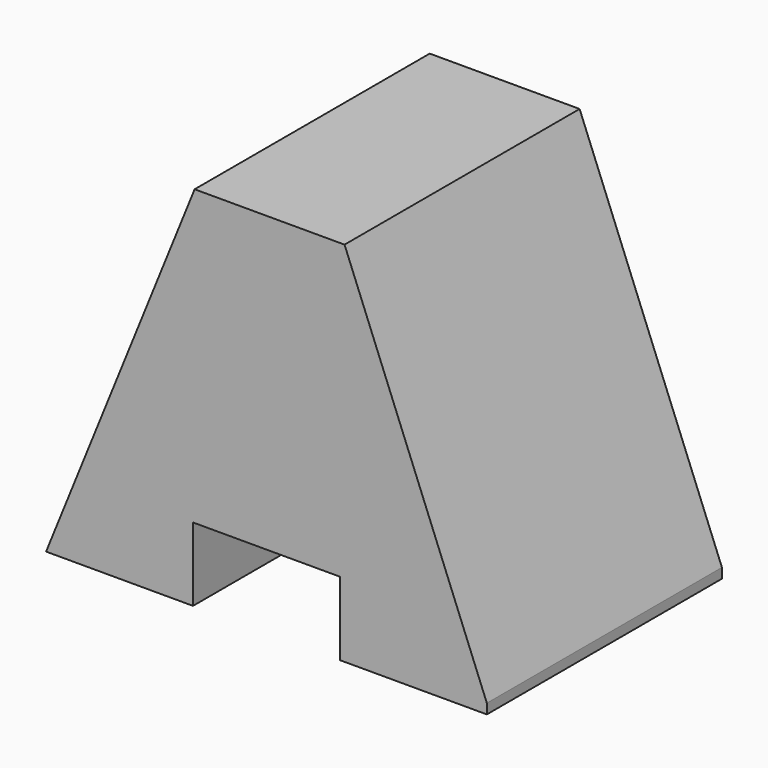
from build123d import *

# Parameters (mm, degrees)
F0_W     = 38.1
F0_H     = 31.75
F1_DEPTH = 25.4
F5_DEPTH = 25.4
F7_DEPTH = 25.4
F2_W     = 12.7
F2_H     = 6.35
F8_DEPTH = 25.4


with BuildPart() as f1:
    # F0 (on Front) → F1 (new body)
    with BuildSketch(Plane.XZ):
        with Locations((19.05, 15.875)):
            Rectangle(F0_W, F0_H)
    extrude(amount=F1_DEPTH)

    # F4 (on face) → F5 (cut)
    with BuildSketch(Plane(origin=(0, 0, 0), x_dir=(-1, 0, 0), z_dir=(0, 1, 0))):
        Polygon((-38.1, 0.8650517863), (-25.7995018967, 31.75), (-38.1, 31.75), align=None)
    extrude(amount=-F5_DEPTH, mode=Mode.SUBTRACT)

    # F6 (on face) → F7 (cut)
    with BuildSketch(Plane(origin=(0, 0, 0), x_dir=(-1, 0, 0), z_dir=(0, 1, 0))):
        Polygon((-12.8411103288, 31.75), (0, 0), (0, 31.75), align=None)
    extrude(amount=-F7_DEPTH, mode=Mode.SUBTRACT)

    # F2 (on face) → F8 (cut)
    with BuildSketch(Plane.XZ.offset(25.4)):
        with Locations((19.05, 3.175)):
            Rectangle(F2_W, F2_H)
    extrude(amount=-F8_DEPTH, mode=Mode.SUBTRACT)


solid = f1.part
